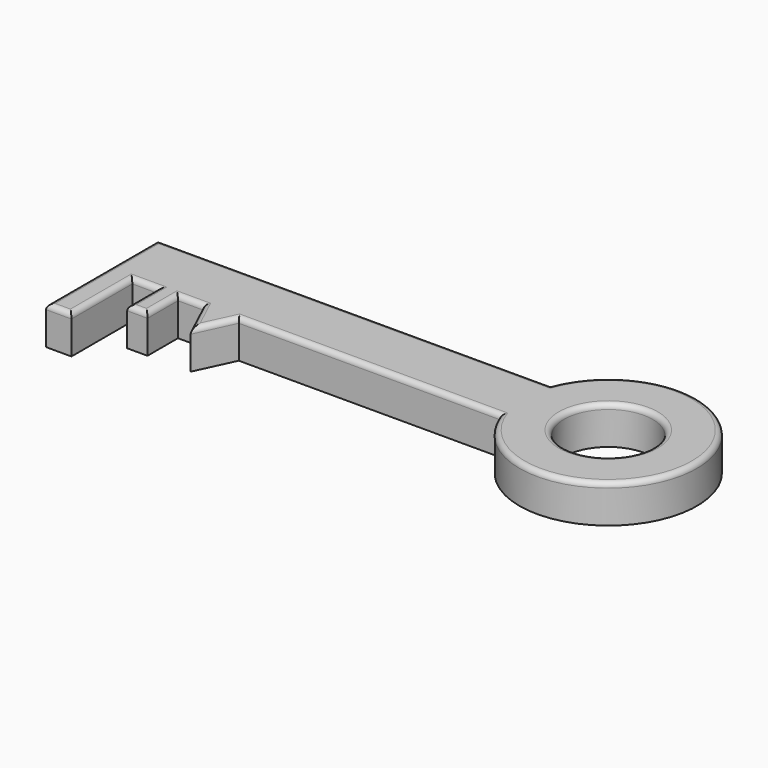
from build123d import *

# Parameters (mm, degrees)
F0_R     = 17.5
F1_DEPTH = 15
F2_R     = 2


with BuildPart() as f1:
    # F0 (on Top) → F1 (new body)
    with BuildSketch(Plane.XY):
        with BuildLine():
            Line((-89.46646, 17.944302), (-89.46646, -12.055698))
            Line((-89.46646, -12.055698), (-79.46646, -12.055698))
            Line((-79.46646, -12.055698), (-79.46646, 17.944302))
            Line((-79.46646, 17.944302), (-69.46646, 17.944302))
            Line((-69.46646, 17.944302), (-69.46646, 2.944302))
            Line((-69.46646, 2.944302), (-61.46646, 2.944302))
            Line((-61.46646, 2.944302), (-61.46646, 17.944302))
            Line((-61.46646, 17.944302), (-51.46646, 17.944302))
            Line((-51.46646, 17.944302), (-44.46646, 2.944302))
            Line((-44.46646, 2.944302), (-37.46646, 17.944302))
            Line((-37.46646, 17.944302), (65.53354, 17.944302))
            ThreePointArc((65.53354, 17.944302), (133.225282, 30.444302), (65.53354, 42.944302))
            Line((65.53354, 42.944302), (-89.46646, 42.944302))
            Line((-89.46646, 42.944302), (-89.46646, 17.944302))
        make_face()
        with Locations((98.225282, 30.444302)):
            Circle(F0_R, mode=Mode.SUBTRACT)
    extrude(amount=F1_DEPTH)

    # F2
    f2_edges = [f1.edges().sort_by_distance(p)[0] for p in [
        (-89.46646, 15.444302, 15),
        (-11.96646, 42.944302, 15),
        (133.225282, 30.444302, 15),
        (14.03354, 17.944302, 15),
        (-40.96646, 10.444302, 15),
        (-84.46646, -12.055698, 15),
        (-79.46646, 2.944302, 15),
        (-74.46646, 17.944302, 15),
        (-69.46646, 10.444302, 15),
        (-65.46646, 2.944302, 15),
        (-61.46646, 10.444302, 15),
        (-56.46646, 17.944302, 15),
        (-47.96646, 10.444302, 15),
        (80.725282, 30.444302, 15),
    ]]
    fillet(f2_edges, radius=F2_R)


solid = f1.part
